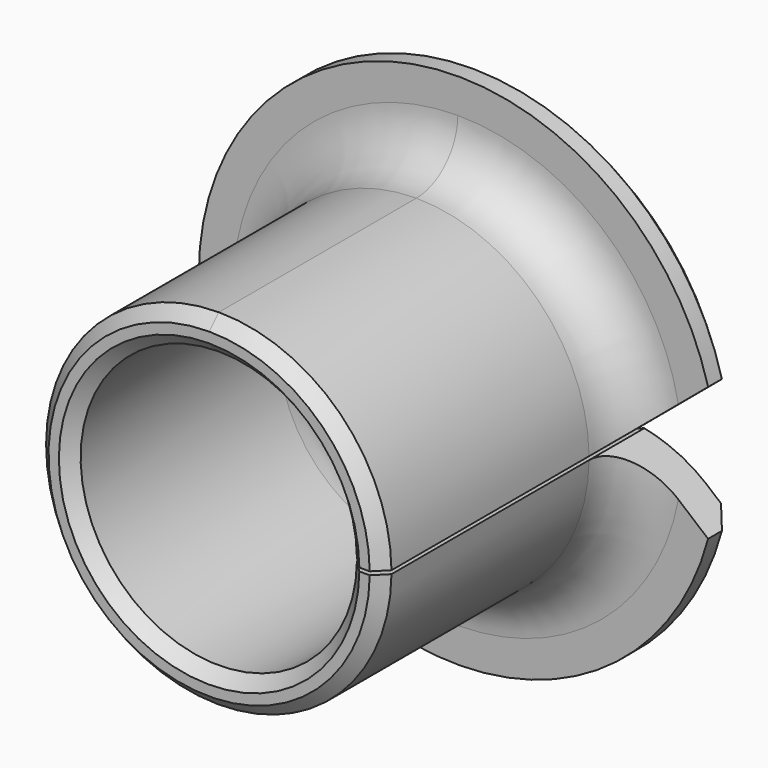
from build123d import *

# Parameters (mm, degrees)
F2_SIZE  = 0.35
F3_R     = 1.5
F4_R     = 2.5
F5_SIZE  = 0.5
F7_DEPTH = 10.0010001


with BuildPart() as f1:
    # F0 (on Right) → F1 (revolve)
    with BuildSketch(Plane.YZ):
        Polygon((5, 4), (5, 7.5), (4, 7.5), (4, 5), (-5, 5), (-5, 4), align=None)
    revolve(axis=Axis((0, 0, 0), (0, 1, 0)))

    # F2
    f2_edges = [f1.edges().sort_by_distance(p)[0] for p in [
        (0, -5, -5),
        (0, -5, -4),
    ]]
    chamfer(f2_edges, length=F2_SIZE)

    # F3
    f3_edges = [f1.edges().sort_by_distance(p)[0] for p in [
        (0, 4, -5),
    ]]
    fillet(f3_edges, radius=F3_R)

    # F4
    f4_edges = [f1.edges().sort_by_distance(p)[0] for p in [
        (0, 5, -4),
    ]]
    fillet(f4_edges, radius=F4_R)

    # F5
    f5_edges = [f1.edges().sort_by_distance(p)[0] for p in [
        (0, 5, -7.5),
    ]]
    chamfer(f5_edges, length=F5_SIZE)

    # F6 (on face) → F7 (cut, through all)
    with BuildSketch(Plane.XZ.offset(5)):
        with BuildLine():
            Line((4.9997499937, 0.05), (4.649731175, 0.05))
            ThreePointArc((4.649731175, 0.05), (4.6499327933, 0.0250003613), (4.65, 0))
            ThreePointArc((4.65, 0), (4.6499327933, -0.0250003613), (4.649731175, -0.05))
            Line((4.649731175, -0.05), (4.9997499937, -0.05))
            Line((4.9997499937, -0.05), (8, -2.5675086737))
            Line((8, -2.5675086737), (8, 2.5675086737))
            Line((8, 2.5675086737), (4.9997499937, 0.05))
        make_face()
        with BuildLine():
            Line((4.3497126342, 0.05), (3.9996874878, 0.05))
            Line((3.9996874878, 0.05), (3.9996874878, -0.05))
            Line((3.9996874878, -0.05), (4.3497126342, -0.05))
            ThreePointArc((4.3497126342, -0.05), (4.349928158, -0.0250004129), (4.35, 0))
            ThreePointArc((4.35, 0), (4.349928158, 0.0250004129), (4.3497126342, 0.05))
        make_face()
        with BuildLine():
            Line((4.649731175, 0.05), (4.3497126342, 0.05))
            ThreePointArc((4.3497126342, 0.05), (4.349928158, 0.0250004129), (4.35, 0))
            ThreePointArc((4.35, 0), (4.349928158, -0.0250004129), (4.3497126342, -0.05))
            Line((4.3497126342, -0.05), (4.649731175, -0.05))
            ThreePointArc((4.649731175, -0.05), (4.6499327933, -0.0250003613), (4.65, 0))
            ThreePointArc((4.65, 0), (4.6499327933, 0.0250003613), (4.649731175, 0.05))
        make_face()
    extrude(amount=-F7_DEPTH, mode=Mode.SUBTRACT)


solid = f1.part
